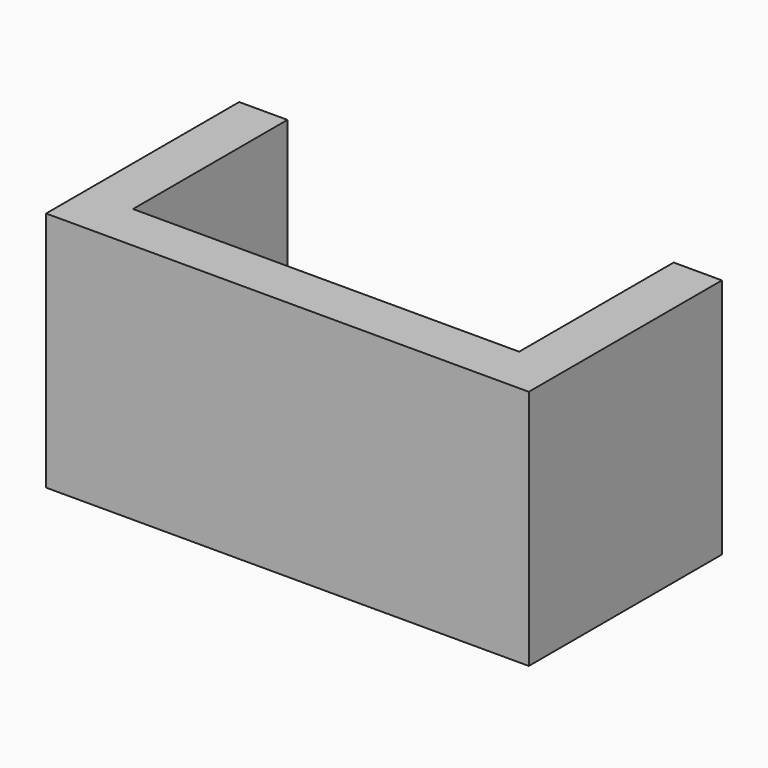
from build123d import *

# Parameters (mm, degrees)
F0_W     = 100
F0_H     = 50
F1_DEPTH = 10
F3_DEPTH = 40


with BuildPart() as f1:
    # F0 (on Top) → F1 (new body)
    with BuildSketch(Plane.XY):
        Rectangle(F0_W, F0_H)
    extrude(amount=F1_DEPTH)

    # F2 (on face) → F3 (join)
    with BuildSketch(Plane.XY.offset(10)):
        Polygon((-40, 25), (-50, 25), (-50, -25), (50, -25), (50, 25), (40, 25), (40, -15), (-40, -15), align=None)
    extrude(amount=F3_DEPTH)


solid = f1.part
